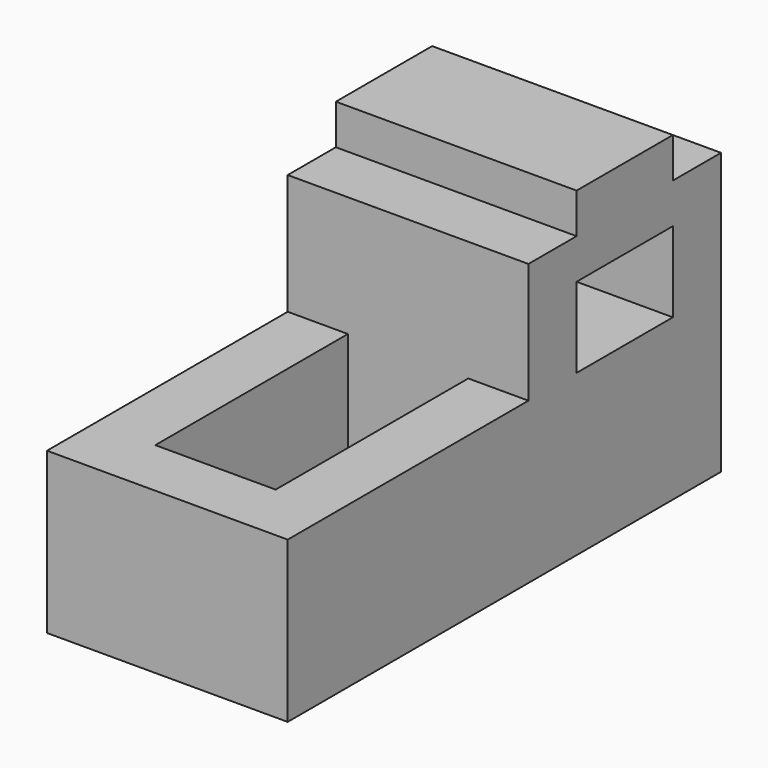
from build123d import *

# Parameters (mm, degrees)
F1_DEPTH = 1219.2
F2_W     = 1219.2
F2_H     = 304.8
F3_DEPTH = 203.2
F4_DEPTH = 203.2
F6_W     = 609.6
F6_H     = 1219.2
F7_DEPTH = 609.6
F5_W     = 609.6
F5_H     = 406.4
F8_DEPTH = 1219.201


with BuildPart() as f1:
    # F0 (on Right) → F1 (new body)
    with BuildSketch(Plane.YZ):
        Polygon((-1367.210736, 377.115599), (-1367.210736, -435.684401), (1375.989264, -435.684401), (1375.989264, 1189.915599), (156.789264, 1189.915599), (156.789264, 377.115599), align=None)
    extrude(amount=F1_DEPTH)

    # F2 (on face) → F3 (cut)
    with BuildSketch(Plane.XY.offset(1189.915599)):
        with Locations((609.6, 1223.589264)):
            Rectangle(F2_W, F2_H)
    extrude(amount=-F3_DEPTH, mode=Mode.SUBTRACT)

    # F2 (on face) → F4 (cut)
    with BuildSketch(Plane.XY.offset(1189.915599)):
        with Locations((609.6, 309.189264)):
            Rectangle(F2_W, F2_H)
    extrude(amount=-F4_DEPTH, mode=Mode.SUBTRACT)

    # F6 (on face) → F7 (cut)
    with BuildSketch(Plane.XY.offset(377.115599)):
        with Locations((609.6, -452.810736)):
            Rectangle(F6_W, F6_H)
    extrude(amount=-F7_DEPTH, mode=Mode.SUBTRACT)

    # F5 (on face) → F8 (cut, through all)
    with BuildSketch(Plane.YZ.offset(1219.2)):
        with Locations((766.389264, 580.315599)):
            Rectangle(F5_W, F5_H)
    extrude(amount=-F8_DEPTH, mode=Mode.SUBTRACT)


solid = f1.part
